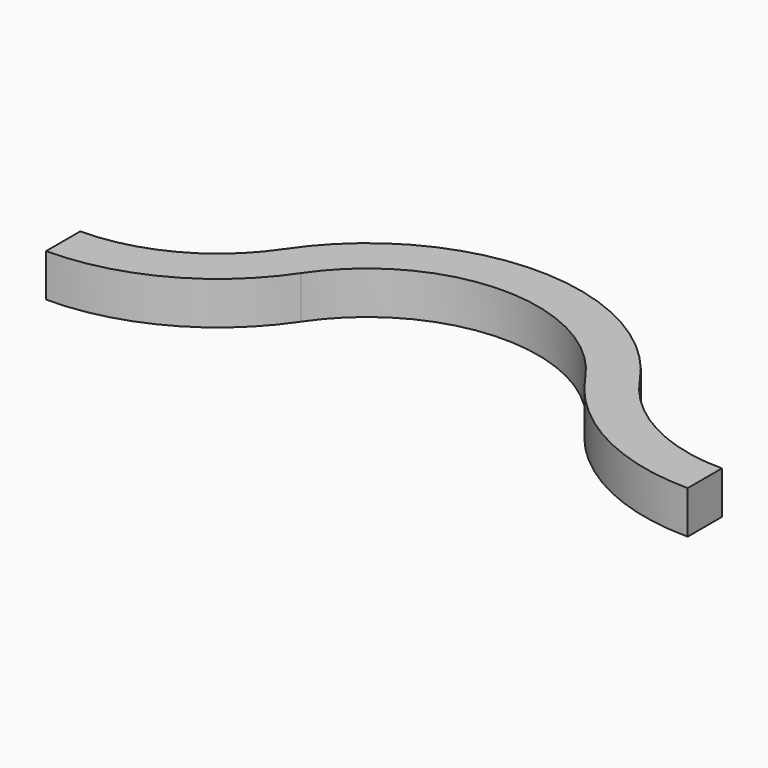
from build123d import *

# Parameters (mm, degrees)
F1_DEPTH = 2.54


with BuildPart() as f1:
    # F0 (on Top) → F1 (new body)
    with BuildSketch(Plane.XY):
        with BuildLine():
            ThreePointArc((-8.43737, 5.660069), (0, 10.16), (8.43737, 5.660069))
            ThreePointArc((8.43737, 5.660069), (13.036176, 1.503456), (19.05, 0))
            Line((19.05, 0), (19.05, 2.54))
            ThreePointArc((19.05, 2.54), (14.231471, 3.744632), (10.546713, 7.075087))
            ThreePointArc((10.546713, 7.075087), (0, 12.7), (-10.546713, 7.075087))
            ThreePointArc((-10.546713, 7.075087), (-14.231471, 3.744632), (-19.05, 2.54))
            Line((-19.05, 2.54), (-19.05, 0))
            ThreePointArc((-19.05, 0), (-13.036176, 1.503456), (-8.43737, 5.660069))
        make_face()
    extrude(amount=F1_DEPTH)


solid = f1.part
